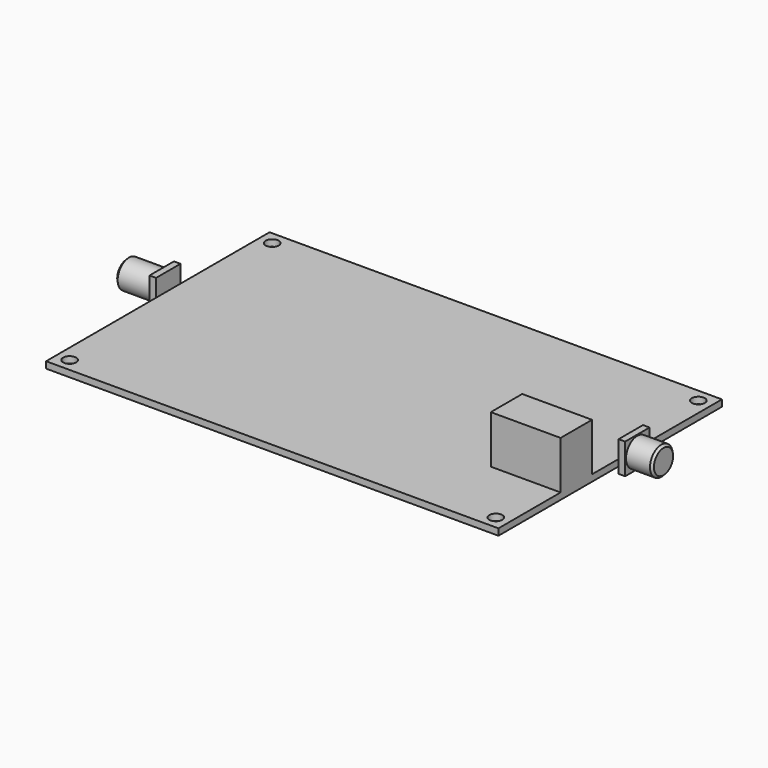
from build123d import *

# Parameters (mm, degrees)
F0_W      = 103.65
F0_H      = 64
F0_R      = 1.5
F1_DEPTH  = 1.5
F2_W      = 9
F2_H      = 11
F3_DEPTH  = 16
F4_W      = 7
F4_H      = 7
F4_H_2    = 4
F5_DEPTH  = 1.5
F6_R      = 3.25
F7_DEPTH  = 6
F8_W      = 7
F8_H      = 4.0027049468
F8_H_2    = 1.5
F8_H_3    = 1.4972950532
F9_DEPTH  = 1.5
F10_R     = 3.25
F11_DEPTH = 8
F12_SIZE  = 0.5
F13_SIZE  = 0.5


with BuildPart() as f1:
    # F0 (on Top) → F1 (new body)
    with BuildSketch(Plane.XY):
        Rectangle(F0_W, F0_H)
        with Locations((-48.825, -29)):
            Circle(F0_R, mode=Mode.SUBTRACT)
        with Locations((48.825, -29)):
            Circle(F0_R, mode=Mode.SUBTRACT)
        with Locations((-48.825, 29)):
            Circle(F0_R, mode=Mode.SUBTRACT)
        with Locations((48.825, 29)):
            Circle(F0_R, mode=Mode.SUBTRACT)
    extrude(amount=F1_DEPTH)

    # F2 (on face) → F3 (join)
    with BuildSketch(Plane.YZ.offset(51.825)):
        with Locations((-9.7, 7)):
            Rectangle(F2_W, F2_H)
    extrude(amount=-F3_DEPTH)

    # F4 (on face) → F5 (join)
    with BuildSketch(Plane.YZ.offset(51.825)):
        with Locations((5.9, 2)):
            Rectangle(F4_W, F4_H)
        with Locations((5.9, 3.5)):
            Rectangle(F4_W, F4_H_2)
    extrude(amount=F5_DEPTH)

    # F6 (on face) → F7 (join)
    with BuildSketch(Plane.YZ.offset(53.325)):
        with Locations((5.9, 2)):
            Circle(F6_R)
    extrude(amount=F7_DEPTH)

    # F8 (on face) → F9 (join)
    with BuildSketch(Plane(origin=(-51.825, 0, 0), x_dir=(0, -1, 0), z_dir=(-1, 0, 0))):
        with Locations((-3, 3.5013524734)):
            Rectangle(F8_W, F8_H)
        with Locations((-3, 0.75)):
            Rectangle(F8_W, F8_H_2)
        with Locations((-3, -0.7486475266)):
            Rectangle(F8_W, F8_H_3)
    extrude(amount=F9_DEPTH)

    # F10 (on face) → F11 (join)
    with BuildSketch(Plane(origin=(-53.325, 0, 0), x_dir=(0, -1, 0), z_dir=(-1, 0, 0))):
        with Locations((-3, 2.0027049468)):
            Circle(F10_R)
    extrude(amount=F11_DEPTH)

    # F12
    f12_edges = [f1.edges().sort_by_distance(p)[0] for p in [
        (-61.325, 6.25, 2.002705),
    ]]
    chamfer(f12_edges, length=F12_SIZE)

    # F13
    f13_edges = [f1.edges().sort_by_distance(p)[0] for p in [
        (59.325, 2.65, 2),
    ]]
    chamfer(f13_edges, length=F13_SIZE)


solid = f1.part
